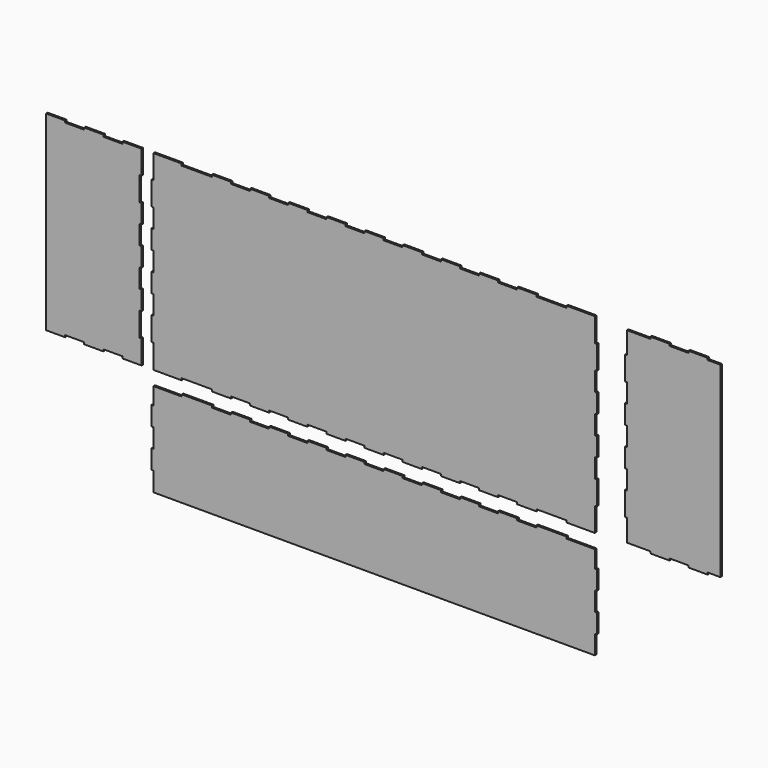
from build123d import *

# Parameters (mm, degrees)
F1_DEPTH = 3
F2_W     = 2.999999
F2_H     = 224.999991
F3_DEPTH = 3
F4_W     = 693.999944
F4_H     = 3.000004
F5_DEPTH = 3
F6_W     = 147
F6_H     = 293.999974
F7_DEPTH = 3
F8_W     = 3
F8_H     = 37.499999
F8_H_2   = 30.000003
F8_H_3   = 29.999986
F8_H_4   = 37.500003
F8_W_2   = 30
F8_H_5   = 3
F9_DEPTH = 3


with BuildPart() as f1:
    # F0 (on Front) → F1 (new body)
    with BuildSketch(Plane.XZ):
        Polygon((-402.835238, 234.718416), (-432.835236, 234.718416), (-432.835236, 197.218416), (-429.835237, 197.218416), (-429.835237, 159.718417), (-432.835236, 159.718417), (-432.835236, 129.718423), (-429.835237, 129.718423), (-429.835237, 99.71842), (-432.835236, 99.71842), (-432.835236, 69.718417), (-429.835237, 69.718417), (-429.835237, 39.718431), (-432.835236, 39.718431), (-432.835236, 9.718428), (-429.835237, 9.718428), (-429.835237, -27.781575), (-432.835236, -27.781575), (-432.835236, -65.281579), (-402.835238, -65.281579), (-402.835238, -62.281558), (-372.835239, -62.281558), (-372.835239, -65.281579), (-342.835245, -65.281579), (-342.835245, -62.281558), (-312.835242, -62.281558), (-312.835242, -65.281579), (-282.835239, -65.281579), (-282.835239, -27.781575), (-285.835243, -27.781575), (-285.835243, 9.718428), (-282.835239, 9.718428), (-282.835239, 39.718431), (-285.835243, 39.718431), (-285.835243, 69.718417), (-282.835239, 69.718417), (-282.835239, 99.71842), (-285.835243, 99.71842), (-285.835243, 129.718423), (-282.835239, 129.718423), (-282.835239, 159.718417), (-285.835243, 159.718417), (-285.835243, 197.218416), (-282.835239, 197.218416), (-282.835239, 234.718416), (-312.835242, 234.718416), (-312.835242, 231.718416), (-342.835245, 231.718416), (-342.835245, 234.718416), (-372.835239, 234.718416), (-372.835239, 231.718416), (-402.835238, 231.718416), align=None)
    extrude(amount=F1_DEPTH)

    # F2 (on face) → F3 (join)
    with BuildSketch(Plane.XZ.offset(3)):
        with Locations((-431.3352365, 84.7184205)):
            Rectangle(F2_W, F2_H)
    extrude(amount=-F3_DEPTH)


with BuildPart() as f1b:
    # F0 (on Front) → F1, piece 2 (new body)
    with BuildSketch(Plane.XZ):
        Polygon((-219.664697, 234.718416), (-264.164693, 234.718416), (-264.164693, 197.218416), (-267.164693, 197.218416), (-267.164693, 159.718417), (-264.164693, 159.718417), (-264.164693, 129.718423), (-267.164693, 129.718423), (-267.164693, 99.71842), (-264.164693, 99.71842), (-264.164693, 69.718417), (-267.164693, 69.718417), (-267.164693, 39.718431), (-264.164693, 39.718431), (-264.164693, 9.718428), (-267.164693, 9.718428), (-267.164693, -27.781575), (-264.164693, -27.781575), (-264.164693, -65.281579), (-219.664697, -65.281579), (-219.664697, -62.281558), (-172.164701, -62.281558), (-172.164701, -65.281579), (-142.164698, -65.281579), (-142.164698, -62.281558), (-112.164695, -62.281558), (-112.164695, -65.281579), (-82.164709, -65.281579), (-82.164709, -62.281558), (-52.164707, -62.281558), (-52.164707, -65.281579), (-22.164704, -65.281579), (-22.164704, -62.281558), (7.835299, -62.281558), (7.835299, -65.281579), (37.835302, -65.281579), (37.835302, -62.281558), (67.835271, -62.281558), (67.835271, -65.281579), (97.835274, -65.281579), (97.835274, -62.281558), (127.835276, -62.281558), (127.835276, -65.281579), (157.835279, -65.281579), (157.835279, -62.281558), (187.835282, -62.281558), (187.835282, -65.281579), (217.835285, -65.281579), (217.835285, -62.281558), (247.835288, -62.281558), (247.835288, -65.281579), (277.835291, -65.281579), (277.835291, -62.281558), (307.83526, -62.281558), (307.83526, -65.281579), (337.835297, -65.281579), (337.835297, -62.281558), (385.335267, -62.281558), (385.335267, -65.281579), (429.835251, -65.281579), (429.835251, -27.781575), (432.835237, -27.781575), (432.835237, 9.718428), (429.835251, 9.718428), (429.835251, 39.718431), (432.835237, 39.718431), (432.835237, 69.718417), (429.835251, 69.718417), (429.835251, 99.71842), (432.835237, 99.71842), (432.835237, 129.718423), (429.835251, 129.718423), (429.835251, 159.718417), (432.835237, 159.718417), (432.835237, 197.218416), (429.835251, 197.218416), (429.835251, 234.718416), (385.335267, 234.718416), (385.335267, 231.718416), (337.835297, 231.718416), (337.835297, 234.718416), (307.83526, 234.718416), (307.83526, 231.718416), (277.835291, 231.718416), (277.835291, 234.718416), (247.835288, 234.718416), (247.835288, 231.718416), (217.835285, 231.718416), (217.835285, 234.718416), (187.835282, 234.718416), (187.835282, 231.718416), (157.835279, 231.718416), (157.835279, 234.718416), (127.835276, 234.718416), (127.835276, 231.718416), (97.835274, 231.718416), (97.835274, 234.718416), (67.835271, 234.718416), (67.835271, 231.718416), (37.835302, 231.718416), (37.835302, 234.718416), (7.835299, 234.718416), (7.835299, 231.718416), (-22.164704, 231.718416), (-22.164704, 234.718416), (-52.164707, 234.718416), (-52.164707, 231.718416), (-82.164709, 231.718416), (-82.164709, 234.718416), (-112.164695, 234.718416), (-112.164695, 231.718416), (-142.164698, 231.718416), (-142.164698, 234.718416), (-172.164701, 234.718416), (-172.164701, 231.718416), (-219.664697, 231.718416), align=None)
    extrude(amount=F1_DEPTH)


with BuildPart() as f1c:
    # F0 (on Front) → F1, piece 3 (new body)
    with BuildSketch(Plane.XZ):
        Polygon((429.835238, -114.718416), (429.835238, -87.718418), (385.335241, -87.718418), (385.335241, -84.718418), (337.835245, -84.718418), (337.835245, -87.718418), (307.835242, -87.718418), (307.835242, -84.718418), (277.835239, -84.718418), (277.835239, -87.718418), (247.835254, -87.718418), (247.835254, -84.718418), (217.835251, -84.718418), (217.835251, -87.718418), (187.835248, -87.718418), (187.835248, -84.718418), (157.835245, -84.718418), (157.835245, -87.718418), (127.835242, -87.718418), (127.835242, -84.718418), (97.835274, -84.718418), (97.835274, -87.718418), (67.835271, -87.718418), (67.835271, -84.718418), (37.835268, -84.718418), (37.835268, -87.718418), (7.835265, -87.718418), (7.835265, -84.718418), (-22.164738, -84.718418), (-22.164738, -87.718418), (-52.164741, -87.718418), (-52.164741, -84.718418), (-82.164744, -84.718418), (-82.164744, -87.718418), (-112.164747, -87.718418), (-112.164747, -84.718418), (-142.164715, -84.718418), (-142.164715, -87.718418), (-172.164753, -87.718418), (-172.164753, -84.718418), (-219.664723, -84.718418), (-219.664723, -87.718418), (-264.164706, -87.718418), (-264.164706, -114.718416), (-267.164693, -114.718416), (-267.164693, -144.718415), (-264.164706, -144.718415), (-264.164706, -174.718409), (-267.164693, -174.718409), (-267.164693, -204.718412), (-264.164706, -204.718412), (-264.164706, -231.718411), (-219.664723, -231.718411), (-219.664723, -234.718415), (-172.164753, -234.718415), (-172.164753, -231.718411), (-142.164715, -231.718411), (-142.164715, -234.718415), (-112.164747, -234.718415), (-112.164747, -231.718411), (-82.164744, -231.718411), (-82.164744, -234.718415), (-52.164741, -234.718415), (-52.164741, -231.718411), (-22.164738, -231.718411), (-22.164738, -234.718415), (7.835265, -234.718415), (7.835265, -231.718411), (37.835268, -231.718411), (37.835268, -234.718415), (67.835271, -234.718415), (67.835271, -231.718411), (97.835274, -231.718411), (97.835274, -234.718415), (127.835242, -234.718415), (127.835242, -231.718411), (157.835245, -231.718411), (157.835245, -234.718415), (187.835248, -234.718415), (187.835248, -231.718411), (217.835251, -231.718411), (217.835251, -234.718415), (247.835254, -234.718415), (247.835254, -231.718411), (277.835239, -231.718411), (277.835239, -234.718415), (307.835242, -234.718415), (307.835242, -231.718411), (337.835245, -231.718411), (337.835245, -234.718415), (385.335241, -234.718415), (385.335241, -231.718411), (429.835238, -231.718411), (429.835238, -204.718412), (432.835237, -204.718412), (432.835237, -174.718409), (429.835238, -174.718409), (429.835238, -144.718415), (432.835237, -144.718415), (432.835237, -114.718416), align=None)
    extrude(amount=F1_DEPTH)

    # F4 (on face) → F5 (join)
    with BuildSketch(Plane.XZ.offset(3)):
        with Locations((82.835266, -233.218413)):
            Rectangle(F4_W, F4_H)
    extrude(amount=-F5_DEPTH)


with BuildPart() as f7:
    # F6 (on face) → F7 (new body)
    with BuildSketch(Plane.XZ.offset(3)):
        with Locations((553.6927242014, 84.718429)):
            Rectangle(F6_W, F6_H)
    extrude(amount=-F7_DEPTH)

    # F8 (on face) → F9 (join)
    with BuildSketch(Plane.XZ.offset(3)):
        with Locations((478.6927242014, 178.4684165)):
            Rectangle(F8_W, F8_H)
        with Locations((478.6927242014, 114.7184215)):
            Rectangle(F8_W, F8_H_2)
        with Locations((478.6927242014, 54.718424)):
            Rectangle(F8_W, F8_H_3)
        with Locations((478.6927242014, -9.0315735)):
            Rectangle(F8_W, F8_H_4)
        with Locations((532.1927242014, -63.781558)):
            Rectangle(F8_W_2, F8_H_5)
        with Locations((592.1927242014, -63.781558)):
            Rectangle(F8_W_2, F8_H_5)
        with Locations((532.1927242014, 233.218416)):
            Rectangle(F8_W_2, F8_H_5)
        with Locations((592.1927242014, 233.218416)):
            Rectangle(F8_W_2, F8_H_5)
    extrude(amount=-F9_DEPTH)


solid = Compound([f1.part, f1b.part, f1c.part, f7.part])
